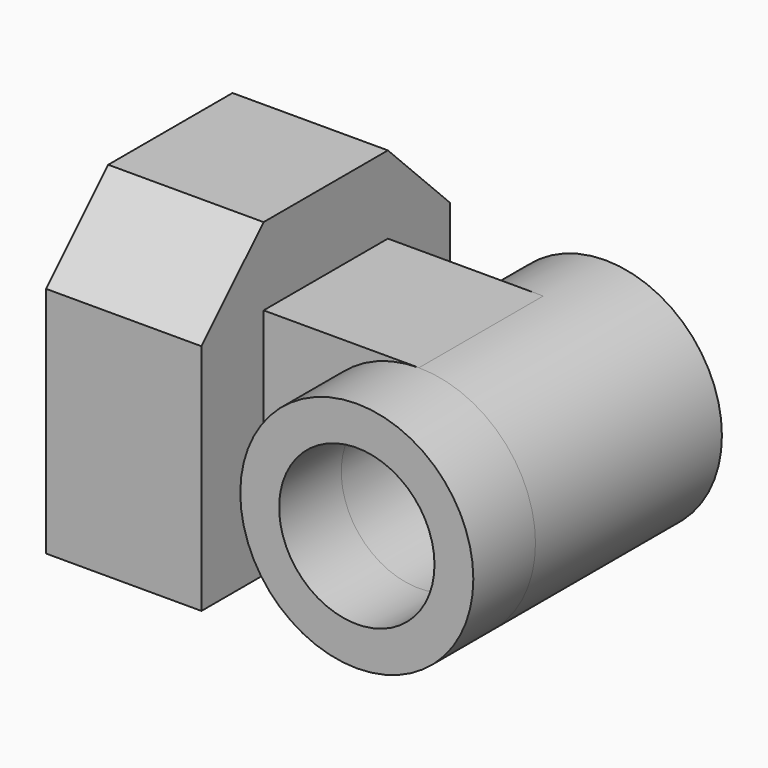
from build123d import *

# Parameters (mm, degrees)
F1_DEPTH = 20
F2_W     = 20
F2_H     = 30
F3_DEPTH = 20
F5_DEPTH = 10
F6_DEPTH = 40
F7_R     = 10
F8_DEPTH = 30.001
F9_DEPTH = 10.001


with BuildPart() as f1:
    # F0 (on Right) → F1 (new body)
    with BuildSketch(Plane.YZ):
        Polygon((-13.2142865657, 0), (26.7857134343, 0), (26.7857134343, 30), (16.7857134343, 40), (-3.2142865657, 40), (-13.2142865657, 30), align=None)
    extrude(amount=-F1_DEPTH)

    # F2 (on face) → F3 (join)
    with BuildSketch(Plane.YZ):
        with Locations((6.7857134343, 15)):
            Rectangle(F2_W, F2_H)
    extrude(amount=F3_DEPTH)

    # F4 (on face) → F5 (join)
    with BuildSketch(Plane.XZ.offset(3.2142865657)):
        with BuildLine():
            ThreePointArc((35, 15), (30.6066017178, 25.6066017178), (20, 30))
            ThreePointArc((20, 30), (5, 15), (20, 0))
            ThreePointArc((20, 0), (30.6066017178, 4.3933982822), (35, 15))
        make_face()
    extrude(amount=F5_DEPTH)

    # F6 (add): a face of the model
    f6_faces = [f1.faces().sort_by_distance(p)[0] for p in [
        (20, -13.2142865657, 15),
    ]]
    extrude(f6_faces, amount=-F6_DEPTH)

    # F7 (on face) → F8 (cut, through all)
    with BuildSketch(Plane.XZ.offset(3.2142865657)):
        with Locations((20, 15)):
            Circle(F7_R)
    extrude(amount=-F8_DEPTH, mode=Mode.SUBTRACT)

    # F7 (on face) → F9 (cut, through all)
    with BuildSketch(Plane.XZ.offset(3.2142865657)):
        with Locations((20, 15)):
            Circle(F7_R)
    extrude(amount=F9_DEPTH, mode=Mode.SUBTRACT)


solid = f1.part
